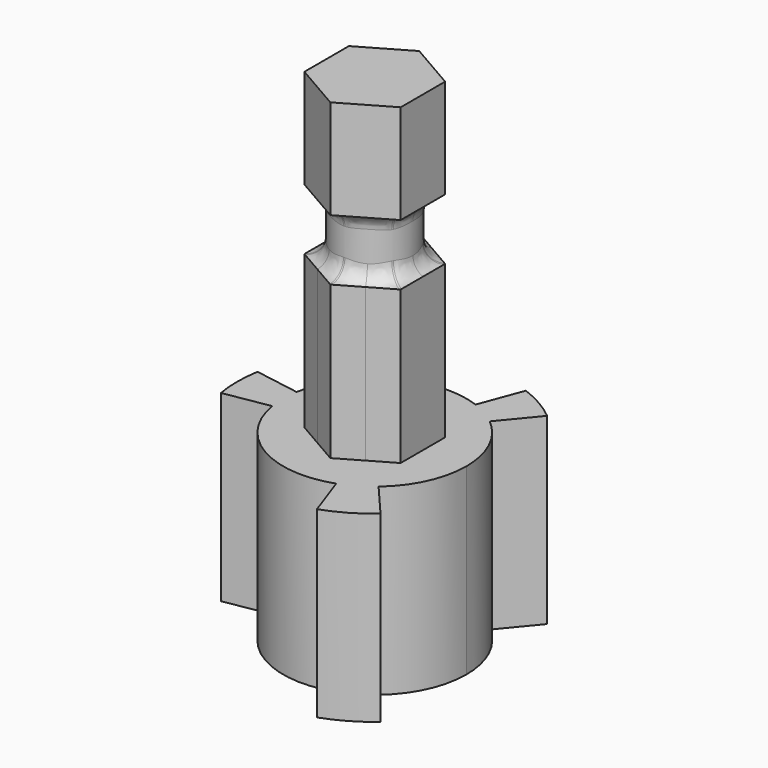
from build123d import *

# Parameters (mm, degrees)
F1_DEPTH = 12
F3_DEPTH = 10
F4_R     = 2.5
F5_DEPTH = 4
F7_DEPTH = 6.5
F8_R     = 1.1


with BuildPart() as f1:
    # F0 (on Top) → F1 (new body)
    with BuildSketch(Plane.XY):
        with BuildLine():
            Line((-5.9160797831, 1), (-8.8741196746, 1.5))
            ThreePointArc((-8.8741196746, 1.5), (-9, 0), (-8.8741196746, -1.5))
            Line((-8.8741196746, -1.5), (-5.9160797831, -1))
            ThreePointArc((-5.9160797831, -1), (-6, 0), (-5.9160797831, 1))
        make_face()
        with BuildLine():
            ThreePointArc((6, 0), (5.4280787943, 2.5565524839), (3.8213464657, 4.6257227748))
            ThreePointArc((3.8213464657, 4.6257227748), (3, 5.1961524227), (2.0953202009, 5.6222445034))
            ThreePointArc((2.0953202009, 5.6222445034), (-2.9984724458, 5.1970340572), (-5.9160797831, 1))
            ThreePointArc((-5.9160797831, 1), (-6, 0), (-5.9160797831, -1))
            ThreePointArc((-5.9160797831, -1), (-3.0422841899, -5.1715091519), (2, -5.6568542495))
            ThreePointArc((2, -5.6568542495), (3, -5.1961524227), (3.8989794856, -4.5604779323))
            ThreePointArc((3.8989794856, -4.5604779323), (5.4494897428, -2.5105898796), (6, 0))
        make_face()
        with BuildLine():
            Line((3.8213464657, 4.6257227748), (5.7320196986, 6.9385841621))
            ThreePointArc((5.7320196986, 6.9385841621), (4.5, 7.7942286341), (3.1429803014, 8.433366755))
            Line((3.1429803014, 8.433366755), (2.0953202009, 5.6222445034))
            ThreePointArc((2.0953202009, 5.6222445034), (3, 5.1961524227), (3.8213464657, 4.6257227748))
        make_face()
        with BuildLine():
            ThreePointArc((3, -8.4852813742), (4.5, -7.7942286341), (5.8484692283, -6.8407168985))
            Line((5.8484692283, -6.8407168985), (3.8989794856, -4.5604779323))
            ThreePointArc((3.8989794856, -4.5604779323), (3, -5.1961524227), (2, -5.6568542495))
            Line((2, -5.6568542495), (3, -8.4852813742))
        make_face()
    extrude(amount=F1_DEPTH)

    # F2 (on face) → F3 (join)
    with BuildSketch(Plane.XY.offset(12)):
        with BuildLine():
            ThreePointArc((1.5750000902, -2.7279799699), (2.727980048, -1.5749999549), (3.15, 0))
            ThreePointArc((3.15, 0), (2.7279800298, 1.5749999864), (1.5750000272, 2.7279800062))
            ThreePointArc((1.5750000272, 2.7279800062), (1.5e-08, 3.15), (-1.5750000013, 2.7279800212))
            ThreePointArc((-1.5750000013, 2.7279800212), (-2.7279800223, 1.5749999993), (-3.15, 0))
            ThreePointArc((-3.15, 0), (-2.7279800223, -1.5749999993), (-1.5750000013, -2.7279800212))
            ThreePointArc((-1.5750000013, -2.7279800212), (5.13e-08, -3.15), (1.5750000902, -2.7279799699))
        make_face()
        with BuildLine():
            Line((3.15, -1.8186533479), (3.15, 0))
            ThreePointArc((3.15, 0), (2.727980048, -1.5749999549), (1.5750000902, -2.7279799699))
            Line((1.5750000902, -2.7279799699), (3.15, -1.8186533479))
        make_face()
        with BuildLine():
            ThreePointArc((1.5750000272, 2.7279800062), (2.7279800298, 1.5749999864), (3.15, 0))
            Line((3.15, 0), (3.15, 1.8186533479))
            Line((3.15, 1.8186533479), (1.5750000272, 2.7279800062))
        make_face()
        with BuildLine():
            ThreePointArc((-1.5750000013, 2.7279800212), (1.5e-08, 3.15), (1.5750000272, 2.7279800062))
            Line((1.5750000272, 2.7279800062), (0, 3.6373066959))
            Line((0, 3.6373066959), (-1.5750000013, 2.7279800212))
        make_face()
        with BuildLine():
            Line((0, -3.6373066959), (1.5750000902, -2.7279799699))
            ThreePointArc((1.5750000902, -2.7279799699), (5.13e-08, -3.15), (-1.5750000013, -2.7279800212))
            Line((-1.5750000013, -2.7279800212), (0, -3.6373066959))
        make_face()
        with BuildLine():
            ThreePointArc((-3.15, 0), (-2.7279800223, 1.5749999993), (-1.5750000013, 2.7279800212))
            Line((-1.5750000013, 2.7279800212), (-3.15, 1.8186533479))
            Line((-3.15, 1.8186533479), (-3.15, 0))
        make_face()
        with BuildLine():
            Line((-3.15, -1.8186533479), (-1.5750000013, -2.7279800212))
            ThreePointArc((-1.5750000013, -2.7279800212), (-2.7279800223, -1.5749999993), (-3.15, 0))
            Line((-3.15, 0), (-3.15, -1.8186533479))
        make_face()
    extrude(amount=F3_DEPTH)

    # F4 (on face) → F5 (join)
    with BuildSketch(Plane.XY.offset(22)):
        Circle(F4_R)
    extrude(amount=F5_DEPTH)

    # F6 (on face) → F7 (join)
    with BuildSketch(Plane.XY.offset(26)):
        Polygon((-3.15, 1.8186533479), (-3.15, -1.8186533479), (0, -3.6373066959), (3.15, -1.8186533479), (3.15, 1.8186533479), (0, 3.6373066959), align=None)
    extrude(amount=F7_DEPTH)

    # F8
    f8_edges = [f1.edges().sort_by_distance(p)[0] for p in [
        (2.5, 0, 24),
        (-2.5, 0, 22),
        (-2.5, 0, 26),
    ]]
    fillet(f8_edges, radius=F8_R)


solid = f1.part
